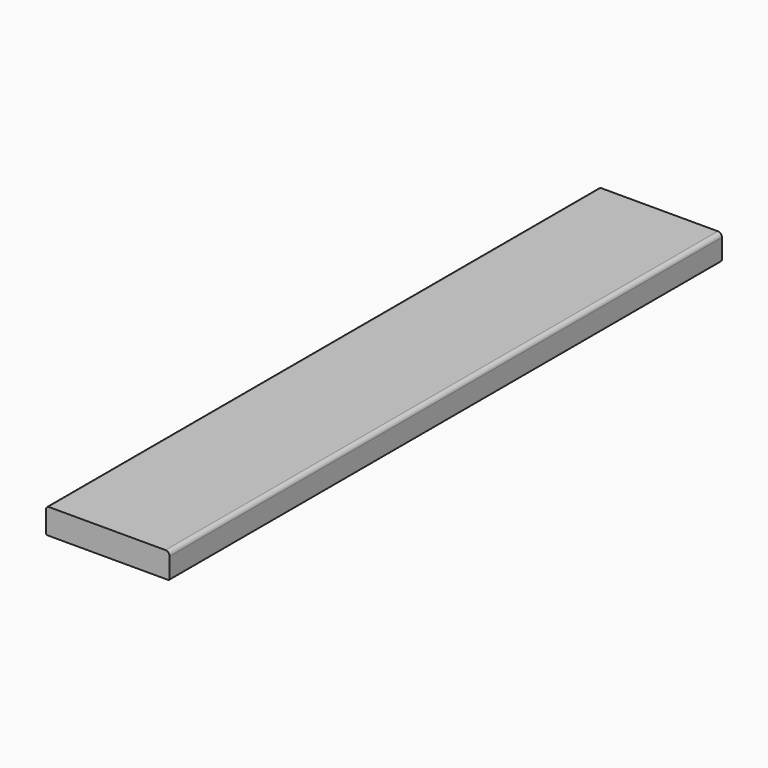
from build123d import *

# Parameters (mm, degrees)
F1_DEPTH = 500


with BuildPart() as f1:
    # F0 (on Front) → F1 (new body)
    with BuildSketch(Plane.XZ):
        with BuildLine():
            Line((-65.798693, 7.593773), (-57.799906, 7.593773))
            Line((-57.799906, 7.593773), (17.104283, 7.593773))
            Line((17.104283, 7.593773), (21.601307, 7.593773))
            ThreePointArc((21.601307, 7.593773), (22.308414, 7.886667), (22.601307, 8.593773))
            Line((22.601307, 8.593773), (22.601307, 22.993773))
            ThreePointArc((22.601307, 22.993773), (21.722627, 25.115094), (19.601307, 25.993773))
            Line((19.601307, 25.993773), (-64.798693, 25.993773))
            ThreePointArc((-64.798693, 25.993773), (-66.212907, 25.407987), (-66.798693, 23.993773))
            Line((-66.798693, 23.993773), (-66.798693, 8.593773))
            ThreePointArc((-66.798693, 8.593773), (-66.5058, 7.886667), (-65.798693, 7.593773))
        make_face()
    extrude(amount=F1_DEPTH)


solid = f1.part
